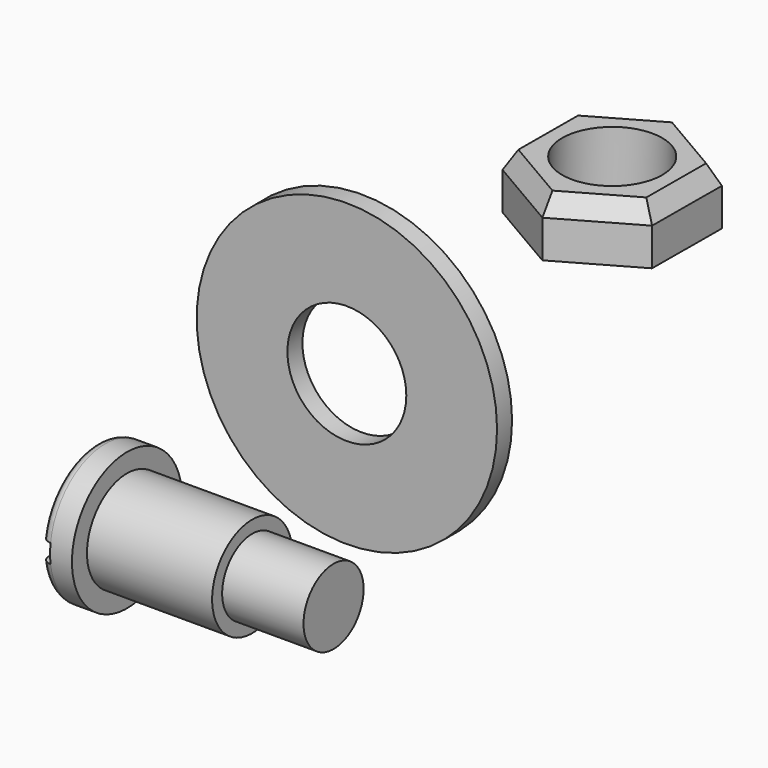
from build123d import *

# Parameters (mm, degrees)
F0_R           = 24
F0_R_2         = 9.5
F1_DEPTH       = 3
F2_R           = 8
F3_DEPTH       = 9
F4_SIZE2       = 1.7320508076
F4_SIZE        = 3
F5_R           = 11
F6_DEPTH       = 5
F7_R           = 8
F8_DEPTH       = 20
F9_R           = 6
F10_DEPTH      = 13
F13_DEPTH      = 11.001
F13_DEPTH_BACK = 117.0138960066
F14_R          = 1.5


with BuildPart() as f1:
    # F0 (on Front) → F1 (new body)
    with BuildSketch(Plane.XZ):
        Circle(F0_R)
        Circle(F0_R_2, mode=Mode.SUBTRACT)
    extrude(amount=F1_DEPTH)


with BuildPart() as f3:
    # F2 (on Top) → F3 (new body)
    with BuildSketch(Plane.XY):
        Polygon((0.0749564451, 63.85620372), (-11.962346199, 56.9930160457), (-12.0373026441, 43.1368123256), (-0.0749564451, 36.14379628), (11.962346199, 43.0069839543), (12.0373026441, 56.8631876744), align=None)
        with Locations((0, 50)):
            Circle(F2_R, mode=Mode.SUBTRACT)
    extrude(amount=F3_DEPTH)

    # F4
    f4_edges = [f3.edges().sort_by_distance(p)[0] for p in [
        (11.999824, 49.935086, 9),
        (5.943695, 39.57539, 9),
        (-6.05613, 39.640304, 9),
        (6.05613, 60.359696, 9),
        (-5.943695, 60.42461, 9),
        (-11.999824, 50.064914, 9),
    ]]
    chamfer(f4_edges, length=F4_SIZE, length2=F4_SIZE2)


with BuildPart() as f6:
    # F5 (on Right) → F6 (new body)
    with BuildSketch(Plane.YZ):
        with Locations((-53.1566922865, 0)):
            Circle(F5_R)
    extrude(amount=F6_DEPTH)

    # F7 (on face) → F8 (join)
    with BuildSketch(Plane.YZ.offset(5)):
        with Locations((-53.1566922865, 0)):
            Circle(F7_R)
    extrude(amount=F8_DEPTH)

    # F9 (on face) → F10 (join)
    with BuildSketch(Plane.YZ.offset(25)):
        with Locations((-53.1566922865, 0)):
            Circle(F9_R)
    extrude(amount=F10_DEPTH)

    # F12 (on plane+point) → F13 (cut, two sides)
    with BuildSketch(Plane.XZ.offset(53.1566922865)) as f13_sk:
        Polygon((1.5, 1.5), (0, 1.5), (0, 0), (0, -1.5), (1.5, -1.5), align=None)
    extrude(amount=F13_DEPTH, mode=Mode.SUBTRACT)
    extrude(f13_sk.sketch, amount=-F13_DEPTH_BACK, mode=Mode.SUBTRACT)

    # F14
    f14_edges = [f6.edges().sort_by_distance(p)[0] for p in [
        (0, -53.156692, 11),
        (0, -53.156692, -11),
    ]]
    fillet(f14_edges, radius=F14_R)


solid = Compound([f1.part, f3.part, f6.part])
